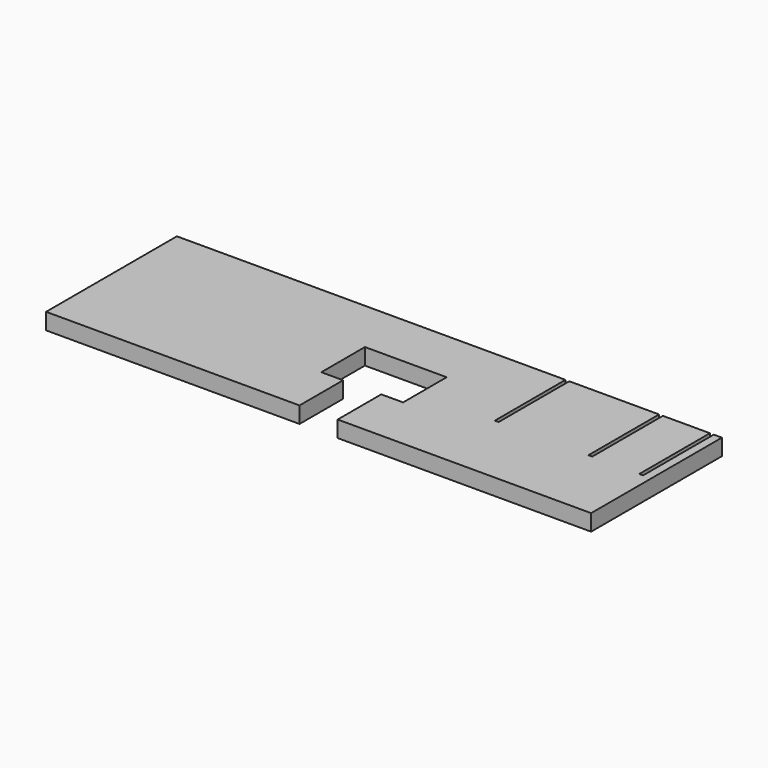
from build123d import *

# Parameters (mm, degrees)
F0_W     = 100
F0_H     = 30
F2_DEPTH = 3
F1_W     = 7
F1_H     = 15
F1_W_2   = 0.7
F1_H_2   = 28.988547
F1_H_3   = 39.616307
F1_H_4   = 26.504163
F3_DEPTH = 4


with BuildPart() as f2:
    # F0 (on Top) → F2 (new body)
    with BuildSketch(Plane.XY):
        Rectangle(F0_W, F0_H)
    extrude(amount=F2_DEPTH)

    # F1 (on Top) → F3 (cut)
    with BuildSketch(Plane.XY):
        Polygon((3.5, -5), (7.5, -5), (7.5, 5), (-7.5, 5), (-7.5, -5), (-3.5, -5), align=None)
        with Locations((0, -12.5)):
            Rectangle(F1_W, F1_H)
        with Locations((21.65, 13.294273)):
            Rectangle(F1_W_2, F1_H_2)
        with Locations((48.15, 18.608153)):
            Rectangle(F1_W_2, F1_H_3)
        with Locations((38.822, 12.052081)):
            Rectangle(F1_W_2, F1_H_4)
    extrude(amount=F3_DEPTH, mode=Mode.SUBTRACT)


solid = f2.part
